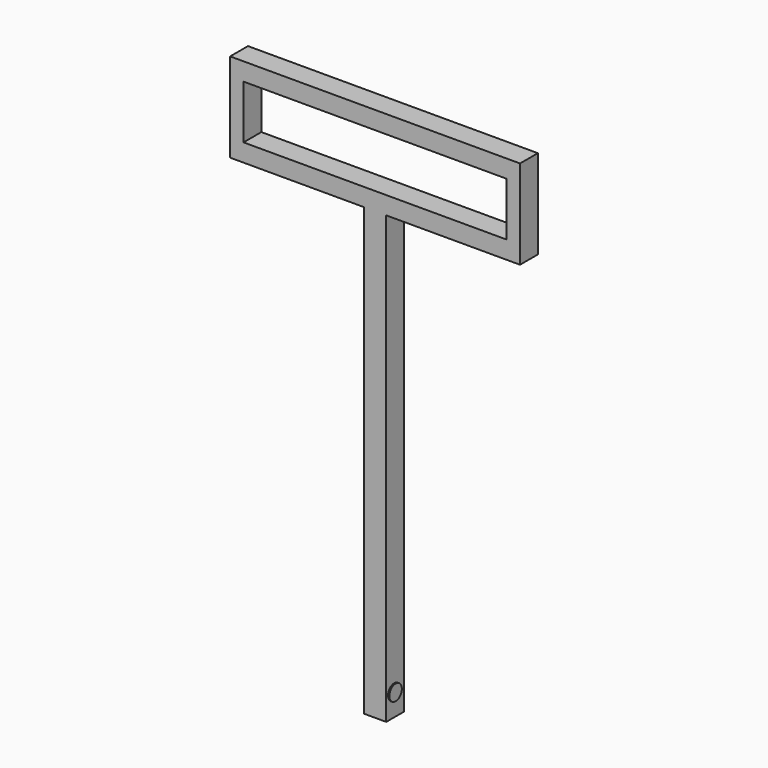
from build123d import *

# Parameters (mm, degrees)
F0_W     = 50
F0_H     = 50
F1_DEPTH = 1000
F3_DEPTH = 50
F4_R     = 17.5
F5_DEPTH = 3
F6_R     = 17.5
F7_DEPTH = 3


with BuildPart() as f1:
    # F0 (on Top) → F1 (new body)
    with BuildSketch(Plane.XY):
        with Locations((0, 2.417763)):
            Rectangle(F0_W, F0_H)
    extrude(amount=F1_DEPTH)

    # F2 (on face) → F3 (join)
    with BuildSketch(Plane.XZ.offset(22.582237)):
        Polygon((-25, 1000), (25, 1000), (325, 1000), (325, 1200), (-325, 1200), (-325, 1000), align=None)
        Polygon((25, 1040), (-295, 1040), (-295, 1160), (295, 1160), (295, 1040), align=None, mode=Mode.SUBTRACT)
    extrude(amount=-F3_DEPTH)

    # F4 (on face) → F5 (join)
    with BuildSketch(Plane.YZ.offset(25)):
        with Locations((0, 50)):
            Circle(F4_R)
    extrude(amount=F5_DEPTH)

    # F6 (on face) → F7 (join)
    with BuildSketch(Plane(origin=(-25, 0, 0), x_dir=(0, -1, 0), z_dir=(-1, 0, 0))):
        with Locations((-2.417763, 50)):
            Circle(F6_R)
    extrude(amount=F7_DEPTH)


solid = f1.part
